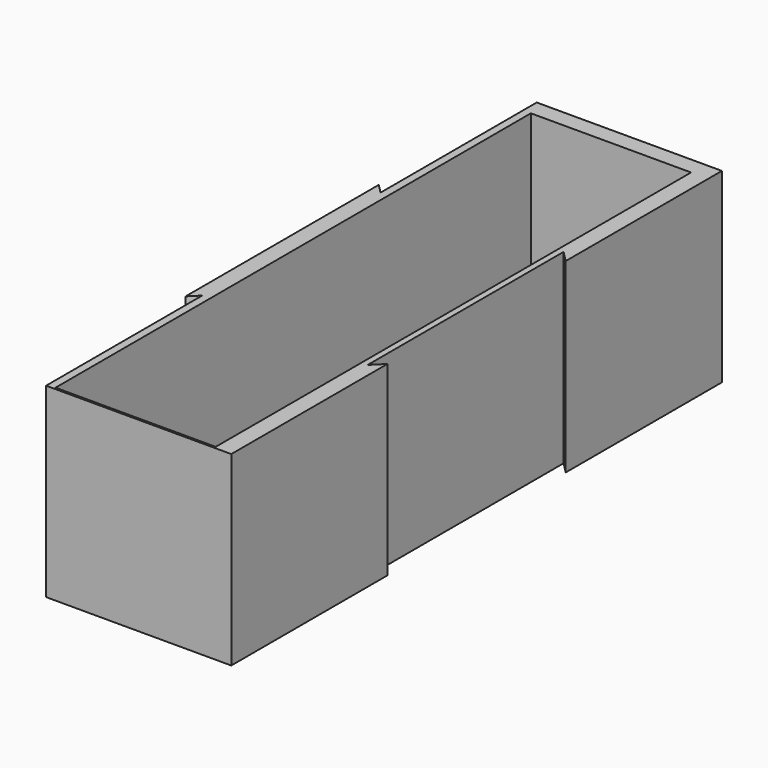
from build123d import *

# Parameters (mm, degrees)
F0_W     = 39.7
F0_H     = 125.2
F0_W_2   = 32.7
F0_H_2   = 118.2
F1_DEPTH = 2
F2_DEPTH = 38
F4_DEPTH = 38.001
F5_SIZE  = 3.1


with BuildPart() as f1:
    # F0 (on Top) → F1 (new body)
    with BuildSketch(Plane.XY):
        Rectangle(F0_W, F0_H)
        Rectangle(F0_W_2, F0_H_2, mode=Mode.SUBTRACT)
        Rectangle(F0_W_2, F0_H_2)
    extrude(amount=F1_DEPTH)

    # F0 (on Top) → F2 (join)
    with BuildSketch(Plane.XY):
        Rectangle(F0_W, F0_H)
        Rectangle(F0_W_2, F0_H_2, mode=Mode.SUBTRACT)
    extrude(amount=F2_DEPTH)

    # F3 (on face) → F4 (cut, through all)
    with BuildSketch(Plane.XY.offset(38)):
        Polygon((-17.953553, 22.75), (-17.953553, 62.6), (-19.85, 62.6), (-19.85, 24.646447), align=None)
        Polygon((-19.85, -62.6), (-17.953553, -62.6), (-17.953553, -22.75), (-19.85, -24.646447), align=None)
        Polygon((-19.85, -62.6), (-17.953553, -62.6), (-17.953553, -22.75), (-19.85, -24.646447), align=None)
        Polygon((19.85, -22.75), (19.85, 22.75), (17.6, 25), (17.6, -25), align=None)
    extrude(amount=-F4_DEPTH, mode=Mode.SUBTRACT)

    # F5
    f5_edges = [f1.edges().sort_by_distance(p)[0] for p in [
        (0, -59.1, 38),
    ]]
    chamfer(f5_edges, length=F5_SIZE)


solid = f1.part
